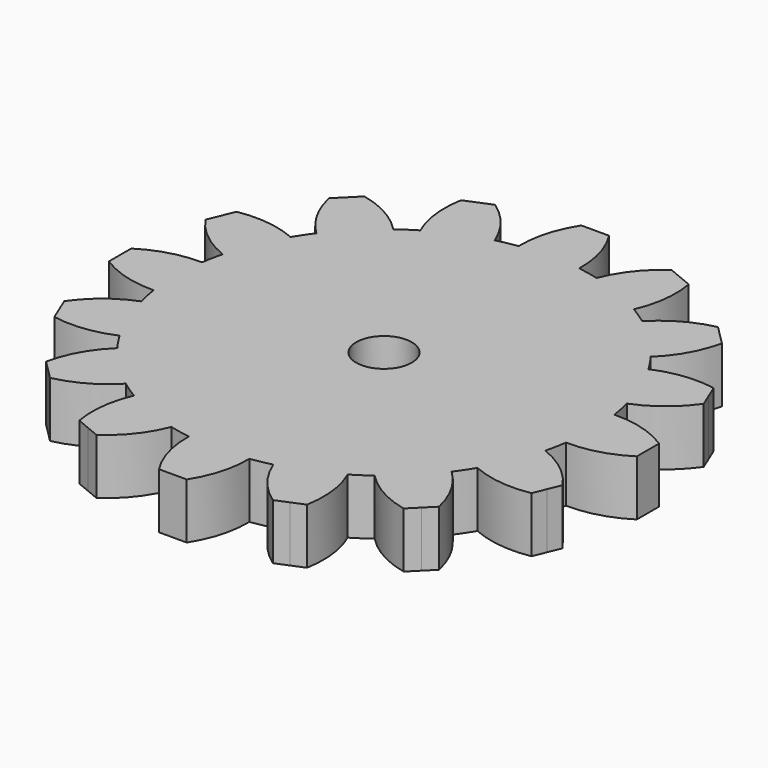
from build123d import *

# Parameters (mm, degrees)
F1_DEPTH = 2
F2_R     = 1
F3_DEPTH = 25


with BuildPart() as f1:
    # F0 (on Top) → F1 (new body)
    with BuildSketch(Plane.XY):
        with BuildLine():
            ThreePointArc((7.420617, -1.088319), (7.480128, -0.545605), (7.5, 0))
            ThreePointArc((7.5, 0), (7.480128, 0.545605), (7.420617, 1.088319))
            ThreePointArc((7.420617, 1.088319), (7.35589, 1.463177), (7.272238, 1.834271))
            ThreePointArc((7.272238, 1.834271), (6.929096, 2.870126), (6.439275, 3.845223))
            ThreePointArc((6.439275, 3.845223), (6.236022, 4.166777), (6.016727, 4.477611))
            ThreePointArc((6.016727, 4.477611), (5.303301, 5.303301), (4.477611, 6.016727))
            ThreePointArc((4.477611, 6.016727), (4.166777, 6.236022), (3.845223, 6.439275))
            ThreePointArc((3.845223, 6.439275), (2.870126, 6.929096), (1.834271, 7.272238))
            ThreePointArc((1.834271, 7.272238), (1.463177, 7.35589), (1.088319, 7.420617))
            ThreePointArc((1.088319, 7.420617), (0, 7.5), (-1.088319, 7.420617))
            ThreePointArc((-1.088319, 7.420617), (-1.463177, 7.35589), (-1.834271, 7.272238))
            ThreePointArc((-1.834271, 7.272238), (-2.870126, 6.929096), (-3.845223, 6.439275))
            ThreePointArc((-3.845223, 6.439275), (-4.166777, 6.236022), (-4.477611, 6.016727))
            ThreePointArc((-4.477611, 6.016727), (-5.303301, 5.303301), (-6.016727, 4.477611))
            ThreePointArc((-6.016727, 4.477611), (-6.236022, 4.166777), (-6.439275, 3.845223))
            ThreePointArc((-6.439275, 3.845223), (-6.929096, 2.870126), (-7.272238, 1.834271))
            ThreePointArc((-7.272238, 1.834271), (-7.35589, 1.463177), (-7.420617, 1.088319))
            ThreePointArc((-7.420617, 1.088319), (-7.5, 0), (-7.420617, -1.088319))
            ThreePointArc((-7.420617, -1.088319), (-7.35589, -1.463177), (-7.272238, -1.834271))
            ThreePointArc((-7.272238, -1.834271), (-6.929096, -2.870126), (-6.439275, -3.845223))
            ThreePointArc((-6.439275, -3.845223), (-6.236022, -4.166777), (-6.016727, -4.477611))
            ThreePointArc((-6.016727, -4.477611), (-5.303301, -5.303301), (-4.477611, -6.016727))
            ThreePointArc((-4.477611, -6.016727), (-4.166777, -6.236022), (-3.845223, -6.439275))
            ThreePointArc((-3.845223, -6.439275), (-2.870126, -6.929096), (-1.834271, -7.272238))
            ThreePointArc((-1.834271, -7.272238), (-1.463177, -7.35589), (-1.088319, -7.420617))
            ThreePointArc((-1.088319, -7.420617), (0, -7.5), (1.088319, -7.420617))
            ThreePointArc((1.088319, -7.420617), (1.463177, -7.35589), (1.834271, -7.272238))
            ThreePointArc((1.834271, -7.272238), (2.870126, -6.929096), (3.845223, -6.439275))
            ThreePointArc((3.845223, -6.439275), (4.166777, -6.236022), (4.477611, -6.016727))
            ThreePointArc((4.477611, -6.016727), (5.303301, -5.303301), (6.016727, -4.477611))
            ThreePointArc((6.016727, -4.477611), (6.236022, -4.166777), (6.439275, -3.845223))
            ThreePointArc((6.439275, -3.845223), (6.929096, -2.870126), (7.272238, -1.834271))
            ThreePointArc((7.272238, -1.834271), (7.35589, -1.463177), (7.420617, -1.088319))
        make_face()
        with BuildLine():
            ThreePointArc((7.420617, 1.088319), (7.480128, 0.545605), (7.5, 0))
            ThreePointArc((7.5, 0), (7.480128, -0.545605), (7.420617, -1.088319))
            ThreePointArc((7.420617, -1.088319), (8.504352, -0.949828), (9.5, -0.5))
            Line((9.5, -0.5), (9.5, 0))
            Line((9.5, 0), (9.5, 0.5))
            ThreePointArc((9.5, 0.5), (8.504352, 0.949828), (7.420617, 1.088319))
        make_face()
        with BuildLine():
            ThreePointArc((6.439275, 3.845223), (6.929096, 2.870126), (7.272238, 1.834271))
            ThreePointArc((7.272238, 1.834271), (8.22048, 2.376948), (8.968197, 3.173553))
            Line((8.968197, 3.173553), (8.776856, 3.635493))
            Line((8.776856, 3.635493), (8.585514, 4.097432))
            ThreePointArc((8.585514, 4.097432), (7.493513, 4.132001), (6.439275, 3.845223))
        make_face()
        with BuildLine():
            ThreePointArc((8.968197, -3.173553), (8.22048, -2.376948), (7.272238, -1.834271))
            ThreePointArc((7.272238, -1.834271), (6.929096, -2.870126), (6.439275, -3.845223))
            ThreePointArc((6.439275, -3.845223), (7.493513, -4.132001), (8.585514, -4.097432))
            Line((8.585514, -4.097432), (8.776856, -3.635493))
            Line((8.776856, -3.635493), (8.968197, -3.173553))
        make_face()
        with BuildLine():
            ThreePointArc((4.477611, 6.016727), (5.303301, 5.303301), (6.016727, 4.477611))
            ThreePointArc((6.016727, 4.477611), (6.685115, 5.341855), (7.071068, 6.363961))
            Line((7.071068, 6.363961), (6.717514, 6.717514))
            Line((6.717514, 6.717514), (6.363961, 7.071068))
            ThreePointArc((6.363961, 7.071068), (5.341855, 6.685115), (4.477611, 6.016727))
        make_face()
        with BuildLine():
            ThreePointArc((7.071068, -6.363961), (6.685115, -5.341855), (6.016727, -4.477611))
            ThreePointArc((6.016727, -4.477611), (5.303301, -5.303301), (4.477611, -6.016727))
            ThreePointArc((4.477611, -6.016727), (5.341855, -6.685115), (6.363961, -7.071068))
            Line((6.363961, -7.071068), (6.717514, -6.717514))
            Line((6.717514, -6.717514), (7.071068, -6.363961))
        make_face()
        with BuildLine():
            ThreePointArc((1.834271, 7.272238), (2.870126, 6.929096), (3.845223, 6.439275))
            ThreePointArc((3.845223, 6.439275), (4.132001, 7.493513), (4.097432, 8.585514))
            Line((4.097432, 8.585514), (3.635493, 8.776856))
            Line((3.635493, 8.776856), (3.173553, 8.968197))
            ThreePointArc((3.173553, 8.968197), (2.376948, 8.22048), (1.834271, 7.272238))
        make_face()
        with BuildLine():
            ThreePointArc((4.097432, -8.585514), (4.132001, -7.493513), (3.845223, -6.439275))
            ThreePointArc((3.845223, -6.439275), (2.870126, -6.929096), (1.834271, -7.272238))
            ThreePointArc((1.834271, -7.272238), (2.376948, -8.22048), (3.173553, -8.968197))
            Line((3.173553, -8.968197), (3.635493, -8.776856))
            Line((3.635493, -8.776856), (4.097432, -8.585514))
        make_face()
        with BuildLine():
            ThreePointArc((-1.088319, 7.420617), (0, 7.5), (1.088319, 7.420617))
            ThreePointArc((1.088319, 7.420617), (0.949828, 8.504352), (0.5, 9.5))
            Line((0.5, 9.5), (0, 9.5))
            Line((0, 9.5), (-0.5, 9.5))
            ThreePointArc((-0.5, 9.5), (-0.949828, 8.504352), (-1.088319, 7.420617))
        make_face()
        with BuildLine():
            ThreePointArc((0.5, -9.5), (0.949828, -8.504352), (1.088319, -7.420617))
            ThreePointArc((1.088319, -7.420617), (0, -7.5), (-1.088319, -7.420617))
            ThreePointArc((-1.088319, -7.420617), (-0.949828, -8.504352), (-0.5, -9.5))
            Line((-0.5, -9.5), (0, -9.5))
            Line((0, -9.5), (0.5, -9.5))
        make_face()
        with BuildLine():
            ThreePointArc((-3.845223, 6.439275), (-2.870126, 6.929096), (-1.834271, 7.272238))
            ThreePointArc((-1.834271, 7.272238), (-2.376948, 8.22048), (-3.173553, 8.968197))
            Line((-3.173553, 8.968197), (-3.635493, 8.776856))
            Line((-3.635493, 8.776856), (-4.097432, 8.585514))
            ThreePointArc((-4.097432, 8.585514), (-4.132001, 7.493513), (-3.845223, 6.439275))
        make_face()
        with BuildLine():
            ThreePointArc((-3.173553, -8.968197), (-2.376948, -8.22048), (-1.834271, -7.272238))
            ThreePointArc((-1.834271, -7.272238), (-2.870126, -6.929096), (-3.845223, -6.439275))
            ThreePointArc((-3.845223, -6.439275), (-4.132001, -7.493513), (-4.097432, -8.585514))
            Line((-4.097432, -8.585514), (-3.635493, -8.776856))
            Line((-3.635493, -8.776856), (-3.173553, -8.968197))
        make_face()
        with BuildLine():
            ThreePointArc((-6.016727, 4.477611), (-5.303301, 5.303301), (-4.477611, 6.016727))
            ThreePointArc((-4.477611, 6.016727), (-5.341855, 6.685115), (-6.363961, 7.071068))
            Line((-6.363961, 7.071068), (-6.717514, 6.717514))
            Line((-6.717514, 6.717514), (-7.071068, 6.363961))
            ThreePointArc((-7.071068, 6.363961), (-6.685115, 5.341855), (-6.016727, 4.477611))
        make_face()
        with BuildLine():
            ThreePointArc((-6.363961, -7.071068), (-5.341855, -6.685115), (-4.477611, -6.016727))
            ThreePointArc((-4.477611, -6.016727), (-5.303301, -5.303301), (-6.016727, -4.477611))
            ThreePointArc((-6.016727, -4.477611), (-6.685115, -5.341855), (-7.071068, -6.363961))
            Line((-7.071068, -6.363961), (-6.717514, -6.717514))
            Line((-6.717514, -6.717514), (-6.363961, -7.071068))
        make_face()
        with BuildLine():
            ThreePointArc((-7.272238, 1.834271), (-6.929096, 2.870126), (-6.439275, 3.845223))
            ThreePointArc((-6.439275, 3.845223), (-7.493513, 4.132001), (-8.585514, 4.097432))
            Line((-8.585514, 4.097432), (-8.776856, 3.635493))
            Line((-8.776856, 3.635493), (-8.968197, 3.173553))
            ThreePointArc((-8.968197, 3.173553), (-8.22048, 2.376948), (-7.272238, 1.834271))
        make_face()
        with BuildLine():
            ThreePointArc((-8.585514, -4.097432), (-7.493513, -4.132001), (-6.439275, -3.845223))
            ThreePointArc((-6.439275, -3.845223), (-6.929096, -2.870126), (-7.272238, -1.834271))
            ThreePointArc((-7.272238, -1.834271), (-8.22048, -2.376948), (-8.968197, -3.173553))
            Line((-8.968197, -3.173553), (-8.776856, -3.635493))
            Line((-8.776856, -3.635493), (-8.585514, -4.097432))
        make_face()
        with BuildLine():
            ThreePointArc((-7.420617, -1.088319), (-7.5, 0), (-7.420617, 1.088319))
            ThreePointArc((-7.420617, 1.088319), (-8.504352, 0.949828), (-9.5, 0.5))
            Line((-9.5, 0.5), (-9.5, 0))
            Line((-9.5, 0), (-9.5, -0.5))
            ThreePointArc((-9.5, -0.5), (-8.504352, -0.949828), (-7.420617, -1.088319))
        make_face()
    extrude(amount=F1_DEPTH)

    # F2 (on face) → F3 (cut)
    with BuildSketch(Plane.XY.offset(2)):
        Circle(F2_R)
    extrude(amount=-F3_DEPTH, mode=Mode.SUBTRACT)


solid = f1.part
